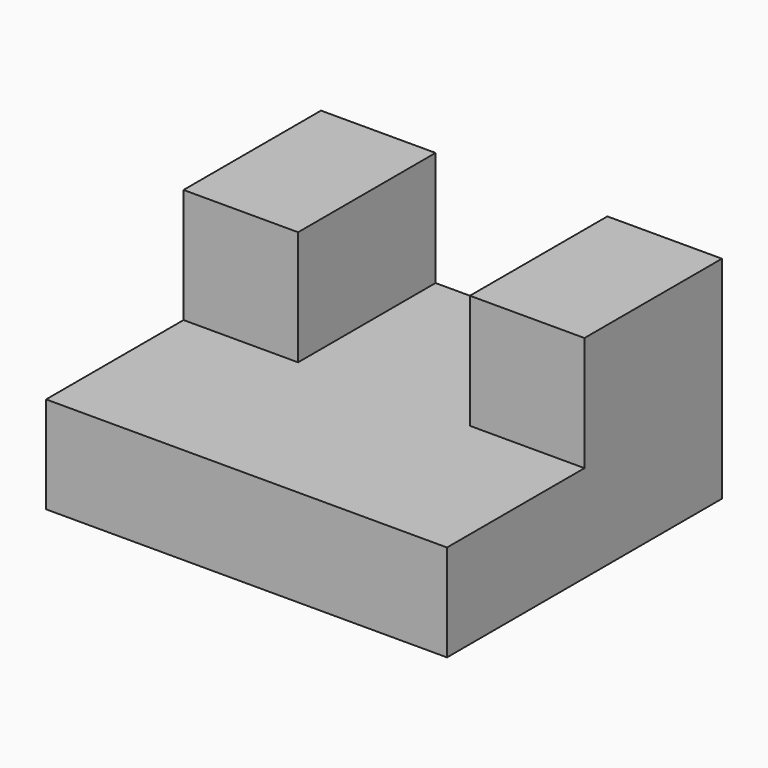
from build123d import *

# Parameters (mm, degrees)
F0_W     = 88.9
F0_H     = 21.458618
F1_DEPTH = 76.2
F2_W     = 25.4
F2_H     = 38.1
F3_DEPTH = 25.4
F4_W     = 25.4
F4_H     = 38.1
F5_DEPTH = 25.4


with BuildPart() as f1:
    # F0 (on Front) → F1 (new body)
    with BuildSketch(Plane.XZ):
        with Locations((2.957856, -38.600019)):
            Rectangle(F0_W, F0_H)
    extrude(amount=F1_DEPTH)

    # F2 (on face) → F3 (join)
    with BuildSketch(Plane.XY.offset(-27.87071)):
        with Locations((-28.792144, -19.05)):
            Rectangle(F2_W, F2_H)
    extrude(amount=F3_DEPTH)

    # F4 (on face) → F5 (join)
    with BuildSketch(Plane.XY.offset(-27.87071)):
        with Locations((34.707856, -19.05)):
            Rectangle(F4_W, F4_H)
    extrude(amount=F5_DEPTH)


solid = f1.part
